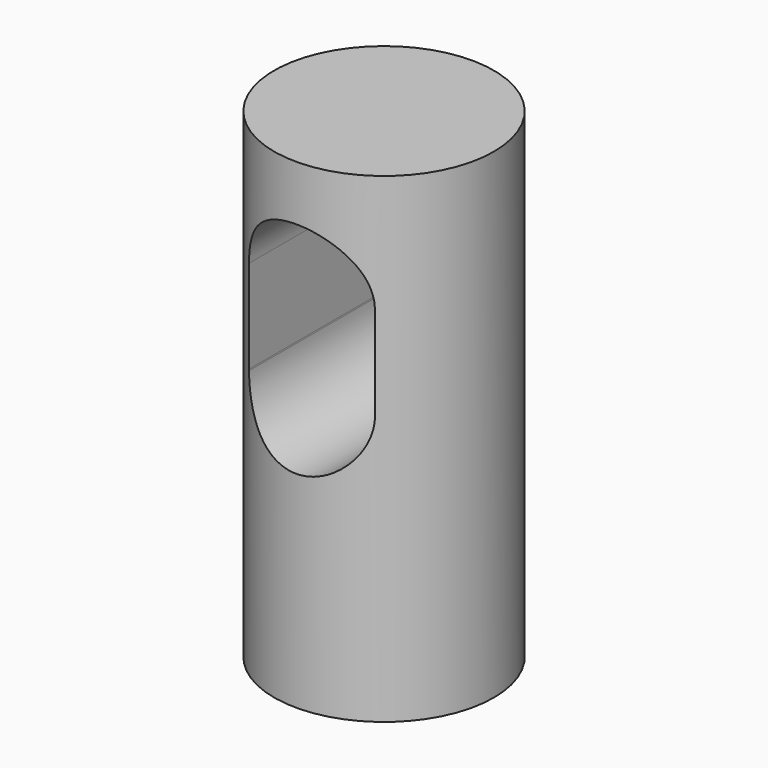
from build123d import *

# Parameters (mm, degrees)
F0_R          = 4.8
F1_DEPTH      = 21
F2_R          = 1.65
F3_DEPTH      = 7.5
F5_DEPTH      = 4.8010001002
F5_DEPTH_BACK = 4.8010001002


with BuildPart() as f1:
    # F0 (on Top) → F1 (new body)
    with BuildSketch(Plane.XY):
        Circle(F0_R)
    extrude(amount=F1_DEPTH)

    # F2 (on face) → F3 (cut)
    with BuildSketch(Plane(origin=(0, 0, 0), x_dir=(1, 0, 0), z_dir=(0, 0, -1))):
        Circle(F2_R)
    extrude(amount=-F3_DEPTH, mode=Mode.SUBTRACT)

    # F4 (on Front) → F5 (cut, two sides)
    with BuildSketch(Plane.XZ) as f5_sk:
        with BuildLine():
            Line((2.7497246979, 15.8889112544), (2.7497298501, 15.8114545531))
            ThreePointArc((2.7497298501, 15.8114545531), (2.7499999939, 15.8501829219), (2.7497246979, 15.8889112544))
        make_face()
        with BuildLine():
            Line((2.7499999939, 11.7501829219), (2.7497298501, 15.8114545531))
            Line((2.7497298501, 15.8114545531), (2.7497246979, 15.8889112544))
            ThreePointArc((2.7497246979, 15.8889112544), (-0.0195165469, 18.5999307454), (-2.7499999973, 15.8498791315))
            Line((-2.7499999973, 15.8498791315), (-2.7498211771, 11.781360704))
            Line((-2.7498211771, 11.781360704), (-2.7498184098, 11.718397575))
            ThreePointArc((-2.7498184098, 11.718397575), (0.0158929328, 9.000045925), (2.7499999939, 11.7501829219))
        make_face()
        with BuildLine():
            ThreePointArc((-2.7498211771, 11.781360704), (-2.7499999973, 11.7498791315), (-2.7498184098, 11.718397575))
            Line((-2.7498184098, 11.718397575), (-2.7498211771, 11.781360704))
        make_face()
    extrude(amount=-F5_DEPTH, mode=Mode.SUBTRACT)
    extrude(f5_sk.sketch, amount=F5_DEPTH_BACK, mode=Mode.SUBTRACT)


solid = f1.part
